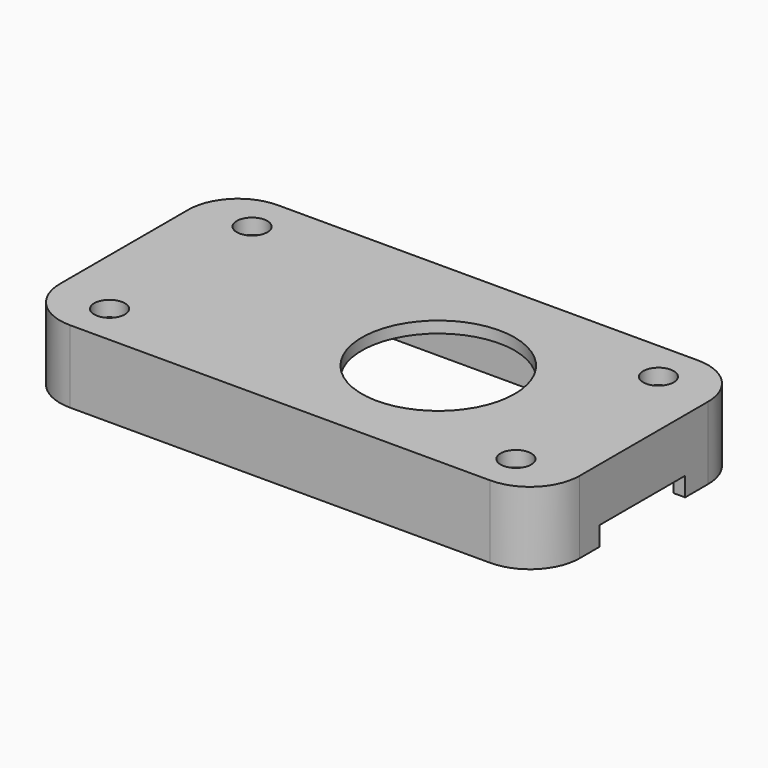
from build123d import *

# Parameters (mm, degrees)
BOX001_W         = 65
BOX001_H         = 31
BOX001_DEPTH     = 8
FILLET001_R      = 5
THICKNESS001_T   = 1.5
SKETCH002_W      = 14
SKETCH002_H      = 2.5
POCKET001_DEPTH  = 1.5
SKETCH003_R      = 2.5
PAD001_DEPTH     = 9.3
HOLE_D           = 2.2
HOLE_CBORE_D     = 4
HOLE_CBORE_DEPTH = 2
SKETCH005_R      = 10
POCKET002_DEPTH  = 1.5
CHAMFER_SIZE     = 1.3


with BuildPart() as part:
    # Box001 → Box001 (join)
    with BuildSketch(Plane.XY.offset(8)):
        with Locations((32.5, 15.5)):
            Rectangle(BOX001_W, BOX001_H)
    extrude(amount=BOX001_DEPTH)

    # Fillet001
    fillet001_edges = [part.edges().sort_by_distance(p)[0] for p in [
        (65, 0, 12),
        (65, 31, 12),
        (0, 0, 12),
        (0, 31, 12),
    ]]
    fillet(fillet001_edges, radius=FILLET001_R)

    # Thickness001
    thickness001_openings = [part.faces().sort_by_distance(p)[0] for p in [
        (32.5, 15.5, 8),
    ]]
    offset(amount=THICKNESS001_T, openings=thickness001_openings, kind=Kind.INTERSECTION)

    # Sketch002 (on Face19 of Thickness001) → Pocket001 (cut)
    with BuildSketch(Plane.YZ.offset(66.5)):
        with Locations((15.25, 9.25)):
            Rectangle(SKETCH002_W, SKETCH002_H)
    extrude(amount=-POCKET001_DEPTH, mode=Mode.SUBTRACT)

    # Sketch003 (on Face2 of Pocket001) → Pad001 (join)
    with BuildSketch(Plane(origin=(0, 0, 16), x_dir=(1, 0, 0), z_dir=(0, 0, -1))):
        with Locations((59.085, -3.845)):
            Circle(SKETCH003_R)
        with Locations((59.085, -27.155)):
            Circle(SKETCH003_R)
        with Locations((5.915, -27.155)):
            Circle(SKETCH003_R)
        with Locations((5.915, -3.845)):
            Circle(SKETCH003_R)
    extrude(amount=PAD001_DEPTH)

    # Hole (through all)
    with Locations(Plane.XY.offset(17.5)):
        with Locations((5.915, 27.155), (59.085, 27.155), (59.085, 3.845), (5.915, 3.845)):
            CounterBoreHole(HOLE_D / 2, HOLE_CBORE_D / 2, HOLE_CBORE_DEPTH)

    # Sketch005 (on Face30 of Hole) → Pocket002 (cut)
    with BuildSketch(Plane.XY.offset(17.5)):
        with Locations((40, 15)):
            Circle(SKETCH005_R)
    extrude(amount=-POCKET002_DEPTH, mode=Mode.SUBTRACT)

    # Chamfer
    chamfer_edges = [part.edges().sort_by_distance(p)[0] for p in [
        (56.585, 3.845, 16),
        (56.585, 27.155, 16),
        (3.415, 3.845, 16),
        (3.415, 27.155, 16),
    ]]
    chamfer(chamfer_edges, length=CHAMFER_SIZE)


solid = part.part
